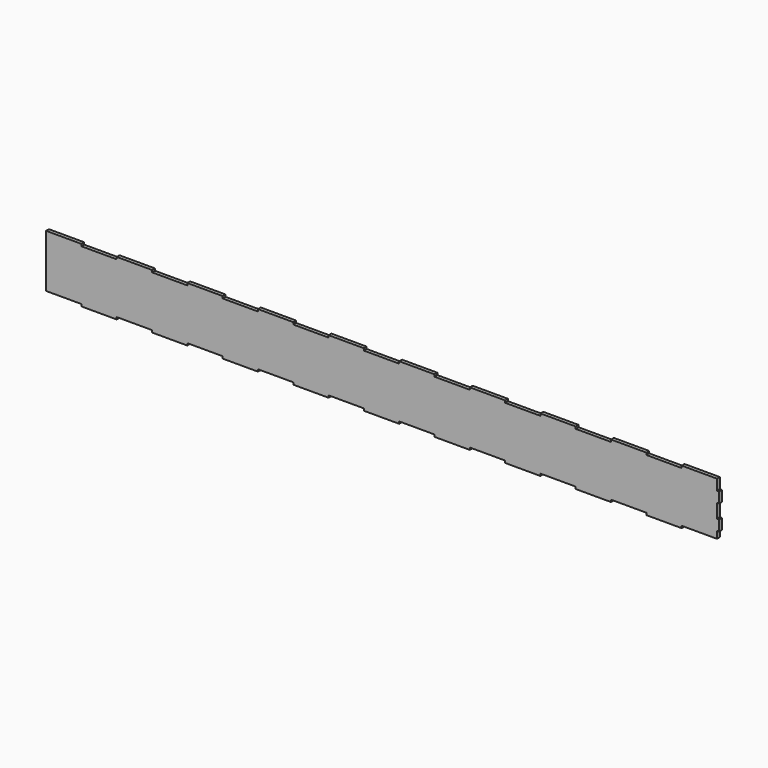
from build123d import *

# Parameters (mm, degrees)
F1_DEPTH = 5


with BuildPart() as f1:
    # F0 (on Front) → F1 (new body)
    with BuildSketch(Plane.XZ):
        Polygon((-375, 35), (-425, 35), (-425, 38), (-475, 38), (-475, 35), (-475, -37), (-425, -37), (-425, -40), (-375, -40), (-375, -37), (-325, -37), (-325, -40), (-275, -40), (-275, -37), (-225, -37), (-225, -40), (-175, -40), (-175, -37), (-125, -37), (-125, -40), (-75, -40), (-75, -37), (-25, -37), (-25, -40), (25, -40), (25, -37), (75, -37), (75, -40), (125, -40), (125, -37), (175, -37), (175, -40), (225, -40), (225, -37), (275, -37), (275, -40), (325, -40), (325, -37), (375, -37), (375, -40), (425, -40), (425, -37), (475, -37), (475, -27), (478, -27), (478, -12), (475, -12), (475, 8), (478, 8), (478, 23), (475, 23), (475, 35), (475, 38), (425, 38), (425, 35), (375, 35), (375, 38), (325, 38), (325, 35), (275, 35), (275, 38), (225, 38), (225, 35), (175, 35), (175, 38), (125, 38), (125, 35), (75, 35), (75, 38), (25, 38), (25, 35), (-25, 35), (-25, 38), (-75, 38), (-75, 35), (-125, 35), (-125, 38), (-175, 38), (-175, 35), (-225, 35), (-225, 38), (-275, 38), (-275, 35), (-325, 35), (-325, 38), (-375, 38), align=None)
    extrude(amount=F1_DEPTH)


solid = f1.part
